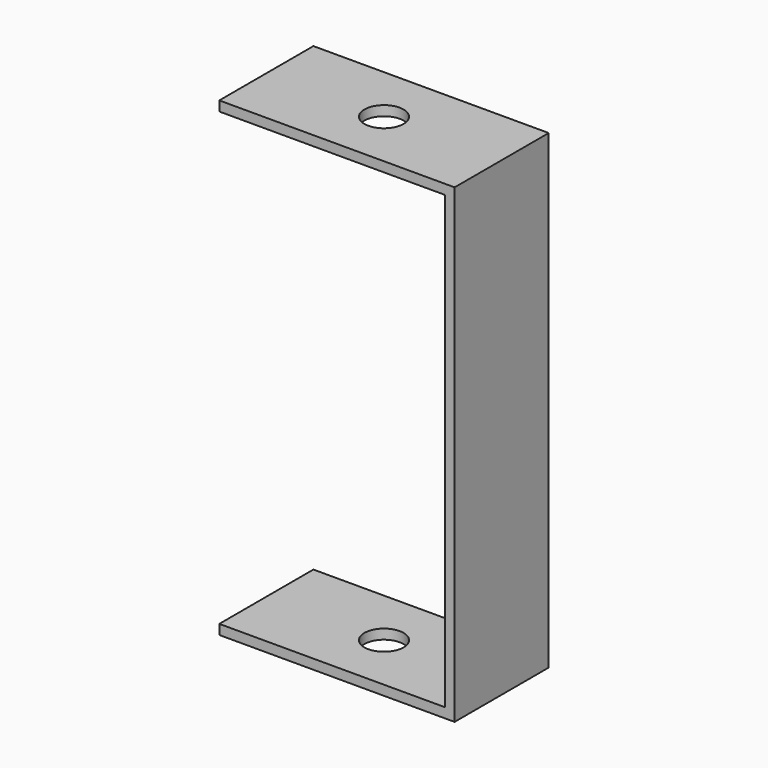
from build123d import *

# Parameters (mm, degrees)
F1_DEPTH = 19.05
F2_R     = 6.35
F3_DEPTH = 3.175
F4_R     = 6.35
F5_DEPTH = 3.175


with BuildPart() as f1:
    # F0 (on Front) → F1 (new body, symmetric)
    with BuildSketch(Plane.XZ):
        Polygon((38.1, 76.2), (-38.1, 76.2), (-38.1, 73.025), (34.925, 73.025), (34.925, -73.025), (-38.1, -73.025), (-38.1, -76.2), (38.1, -76.2), align=None)
    extrude(amount=F1_DEPTH, both=True)

    # F2 (on face) → F3 (cut, symmetric)
    with BuildSketch(Plane.XY.offset(76.2)):
        Circle(F2_R)
    extrude(amount=F3_DEPTH, both=True, mode=Mode.SUBTRACT)

    # F4 (on face) → F5 (cut, symmetric)
    with BuildSketch(Plane(origin=(0, 0, -76.2), x_dir=(1, 0, 0), z_dir=(0, 0, -1))):
        Circle(F4_R)
    extrude(amount=F5_DEPTH, both=True, mode=Mode.SUBTRACT)


solid = f1.part
